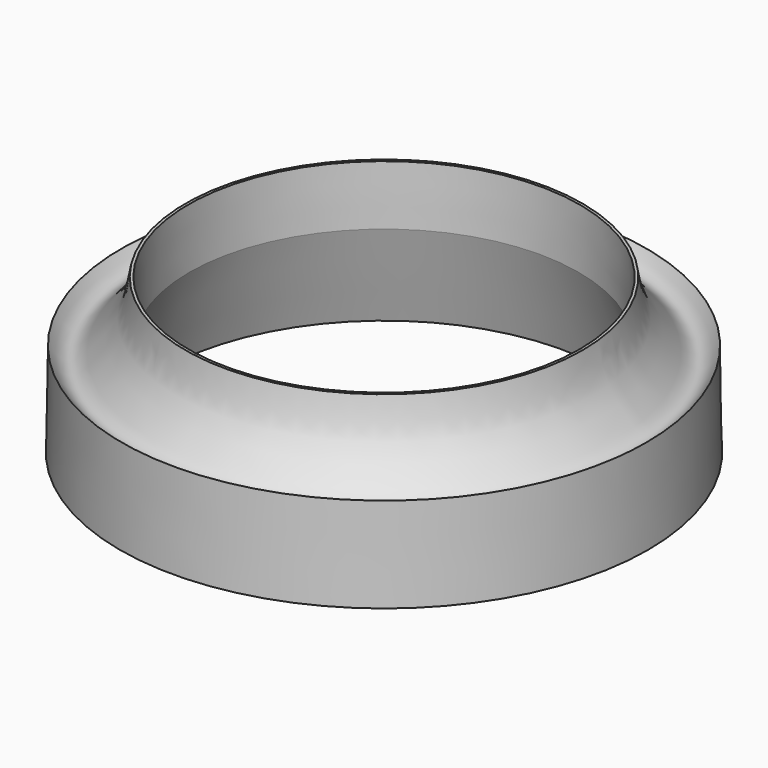
from build123d import *

# Parameters (mm, degrees)
F0_R     = 34.2
F0_R_2   = 25
F1_DEPTH = 20
F1_TAPER = 1


with BuildPart() as f1:
    # F0 (on Top) → F1 (new body)
    with BuildSketch(Plane.XY):
        Circle(F0_R)
        Circle(F0_R_2, mode=Mode.SUBTRACT)
    extrude(amount=F1_DEPTH, taper=F1_TAPER)

    # F2 (on Front) → F3 (revolve, cut)
    with BuildSketch(Plane.XZ):
        with BuildLine():
            add(Edge.make_bspline(
                [(33.8508987014, 20), (34.5279154674, 17.1435580228), (35.6019225021, 14.3100054706), (31.9943513722, 8.8355799611), (28.0930977125, 13.5709649723), (26.2169436245, 15.879539299), (25.7144793868, 20)],
                knots=[0, 0, 0, 0, 0.2671985565, 0.4881994445, 0.7042905591, 1, 1, 1, 1], degree=3))
            Line((33.8508987014, 20), (25.7144793868, 20))
        make_face()
    revolve(axis=Axis((0, 0, 20), (0, 0, -1)), mode=Mode.SUBTRACT)

    # F4 (on Front) → F5 (revolve, cut)
    with BuildSketch(Plane.XZ):
        Polygon((-23.3645886183, 18.6395887285), (-28.8334805518, 0), (-18.9926475286, 0), align=None)
    revolve(axis=Axis((0, 0, 20), (0, 0, -1)), mode=Mode.SUBTRACT)


solid = f1.part
